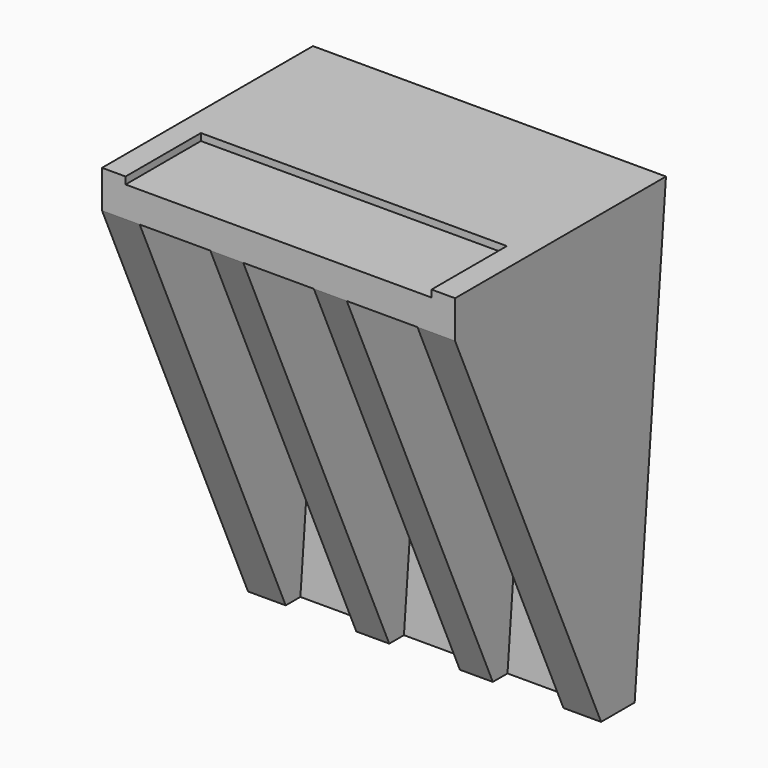
from build123d import *

# Parameters (mm, degrees)
F0_W      = 75
F0_H      = 100
F1_DEPTH  = 56
F3_DEPTH  = 75.001
F4_W      = 15
F4_H      = 92
F5_DEPTH  = 50
F6_W      = 65
F6_H      = 20
F7_DEPTH  = 1.5
F9_DEPTH  = 75.001
F11_DEPTH = 75
F12_W     = 75
F12_H     = 5
F12_R     = 2.6
F13_DEPTH = 56.001


with BuildPart() as f1:
    # F0 (on Front) → F1 (new body)
    with BuildSketch(Plane.XZ):
        with Locations((37.5, 50)):
            Rectangle(F0_W, F0_H)
    extrude(amount=F1_DEPTH)

    # F2 (on face) → F3 (cut, through all)
    with BuildSketch(Plane(origin=(0, 0, 0), x_dir=(0, -1, 0), z_dir=(-1, 0, 0))):
        Polygon((56, 92), (15, 0), (56, 0), align=None)
    extrude(amount=-F3_DEPTH, mode=Mode.SUBTRACT)

    # F4 (on face) → F5 (cut)
    with BuildSketch(Plane.XZ.offset(56)):
        with Locations((15.5, 46)):
            Rectangle(F4_W, F4_H)
        with Locations((37.5, 46)):
            Rectangle(F4_W, F4_H)
        with Locations((59.5, 46)):
            Rectangle(F4_W, F4_H)
    extrude(amount=-F5_DEPTH, mode=Mode.SUBTRACT)

    # F6 (on face) → F7 (cut)
    with BuildSketch(Plane.XY.offset(100)):
        with Locations((37.5, -46)):
            Rectangle(F6_W, F6_H)
    extrude(amount=-F7_DEPTH, mode=Mode.SUBTRACT)

    # F8 (on face) → F9 (cut, through all)
    with BuildSketch(Plane(origin=(0, 0, 0), x_dir=(0, -1, 0), z_dir=(-1, 0, 0))):
        Polygon((8.748866, 0), (0, 100), (0, 0), align=None)
    extrude(amount=-F9_DEPTH, mode=Mode.SUBTRACT)

    # F10 (on face) → F11 (join, through all)
    with BuildSketch(Plane(origin=(0, 0, 0), x_dir=(0, -1, 0), z_dir=(-1, 0, 0))):
        Polygon((5.019099, 100), (0, 100), (8.748866, 0), (13.767966, 0), align=None)
    extrude(amount=-F11_DEPTH)

    # F12 (on face) → F13 (cut, through all)
    with BuildSketch(Plane.XZ.offset(56)):
        with Locations((37.5, 2.5)):
            Rectangle(F12_W, F12_H)
        with Locations((15.5, 17)):
            Circle(F12_R)
        with Locations((15.5, 42)):
            Circle(F12_R)
        with Locations((15.5, 67)):
            Circle(F12_R)
        with Locations((37.5, 67)):
            Circle(F12_R)
        with Locations((37.5, 42)):
            Circle(F12_R)
        with Locations((37.5, 17)):
            Circle(F12_R)
        with Locations((59.5, 17)):
            Circle(F12_R)
        with Locations((59.5, 42)):
            Circle(F12_R)
        with Locations((59.5, 67)):
            Circle(F12_R)
    extrude(amount=-F13_DEPTH, mode=Mode.SUBTRACT)


solid = f1.part
